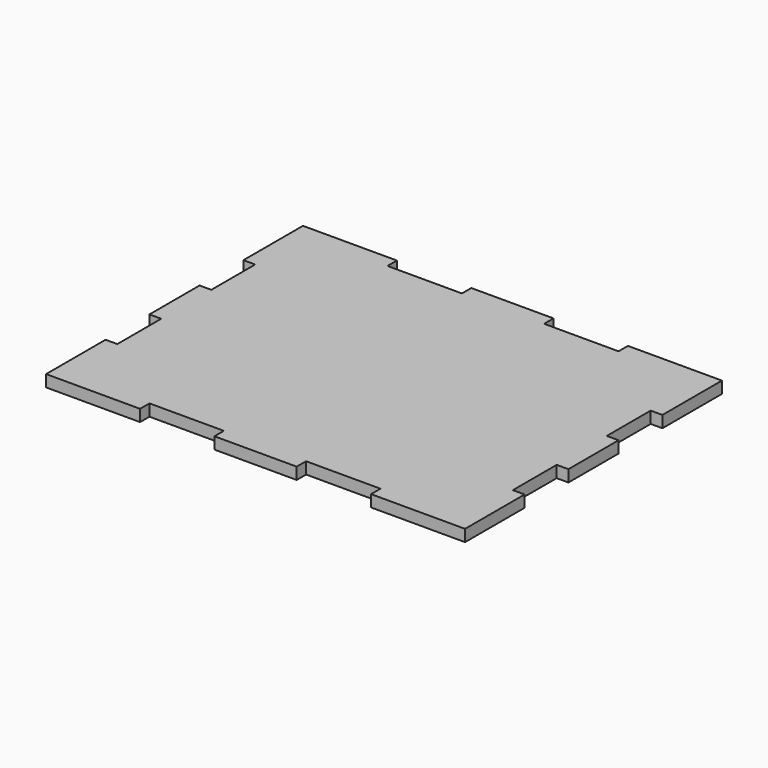
from build123d import *

# Parameters (mm, degrees)
F2_DEPTH = 3


with BuildPart() as f2:
    # F1 (on Top) → F2 (new body)
    with BuildSketch(Plane.XY):
        Polygon((10.5, -41), (10.5, -38), (29.5, -38), (29.5, -41), (53.5, -41), (53.5, -22), (50.5, -22), (50.5, -8), (53.5, -8), (53.5, 0), (53.5, 8), (50.5, 8), (50.5, 22), (53.5, 22), (53.5, 41), (29.5, 41), (29.5, 38), (10.5, 38), (10.5, 41), (0, 41), (-10.5, 41), (-10.5, 38), (-29.5, 38), (-29.5, 41), (-53.5, 41), (-53.5, 22), (-50.5, 22), (-50.5, 8), (-53.5, 8), (-53.5, 0), (-53.5, -8), (-50.5, -8), (-50.5, -22), (-53.5, -22), (-53.5, -41), (-29.5, -41), (-29.5, -38), (-10.5, -38), (-10.5, -41), (0, -41), align=None)
    extrude(amount=F2_DEPTH)


solid = f2.part
